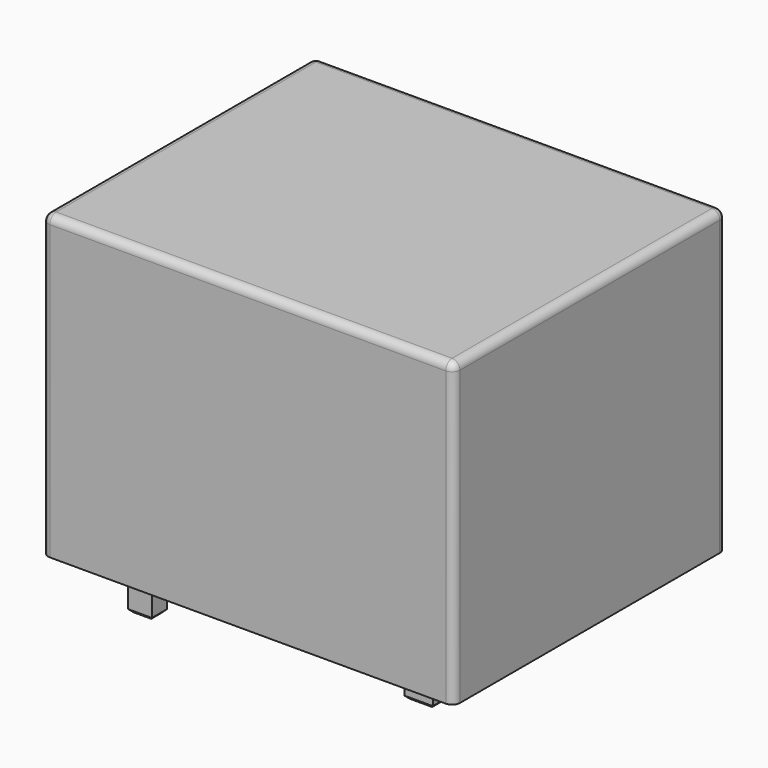
from build123d import *

# Parameters (mm, degrees)
F0_W     = 26
F0_H     = 21.5
F2_DEPTH = 19
F1_W     = 1.8
F1_H     = 1.8
F1_W_2   = 1.5
F1_H_2   = 1.2
F1_W_3   = 1.2
F3_DEPTH = 3
F4_R     = 0.5
F5_SIZE  = 0.2


with BuildPart() as f2:
    # F0 (on Top) → F2 (new body)
    with BuildSketch(Plane.XY):
        Rectangle(F0_W, F0_H)
    extrude(amount=F2_DEPTH)

    # F4
    f4_edges = [f2.edges().sort_by_distance(p)[0] for p in [
        (-13, 10.75, 9.5),
        (-13, 0, 19),
        (0, 10.75, 19),
        (0, -10.75, 19),
        (-13, -10.75, 9.5),
        (13, 10.75, 9.5),
        (13, -10.75, 9.5),
        (13, 0, 19),
    ]]
    fillet(f4_edges, radius=F4_R)


with BuildPart() as f3:
    # F1 (on Top) → F3 (new body)
    with BuildSketch(Plane.XY):
        with Locations((4.1, 7.95)):
            Rectangle(F1_W, F1_H)
        with Locations((-6.9, 7.95)):
            Rectangle(F1_W, F1_H)
        with Locations((-8.65, -4.05)):
            Rectangle(F1_W_2, F1_H_2)
        with Locations((-2.85, -4.05)):
            Rectangle(F1_W_3, F1_H_2)
        with Locations((1.05, -4.05)):
            Rectangle(F1_W_3, F1_H_2)
        with Locations((-8.65, -7.85)):
            Rectangle(F1_W_2, F1_H_2)
        with Locations((7.9, -6.25)):
            Rectangle(F1_W, F1_H)
    extrude(amount=-F3_DEPTH)

    # F5
    f5_edges = [f3.edges().sort_by_distance(p)[0] for p in [
        (5, 7.95, -3),
        (4.1, 8.85, -3),
        (3.2, 7.95, -3),
        (4.1, 7.05, -3),
        (-6, 7.95, -3),
        (-6.9, 8.85, -3),
        (-7.8, 7.95, -3),
        (-6.9, 7.05, -3),
        (8.8, -6.25, -3),
        (7.9, -5.35, -3),
        (7, -6.25, -3),
        (7.9, -7.15, -3),
        (-7.9, -7.85, -3),
        (-8.65, -7.25, -3),
        (-9.4, -7.85, -3),
        (-8.65, -8.45, -3),
        (-7.9, -4.05, -3),
        (-8.65, -3.45, -3),
        (-9.4, -4.05, -3),
        (-8.65, -4.65, -3),
        (-2.25, -4.05, -3),
        (-2.85, -3.45, -3),
        (-3.45, -4.05, -3),
        (-2.85, -4.65, -3),
        (1.05, -4.65, -3),
        (1.65, -4.05, -3),
        (1.05, -3.45, -3),
        (0.45, -4.05, -3),
    ]]
    chamfer(f5_edges, length=F5_SIZE)


solid = Compound([f2.part, f3.part])
